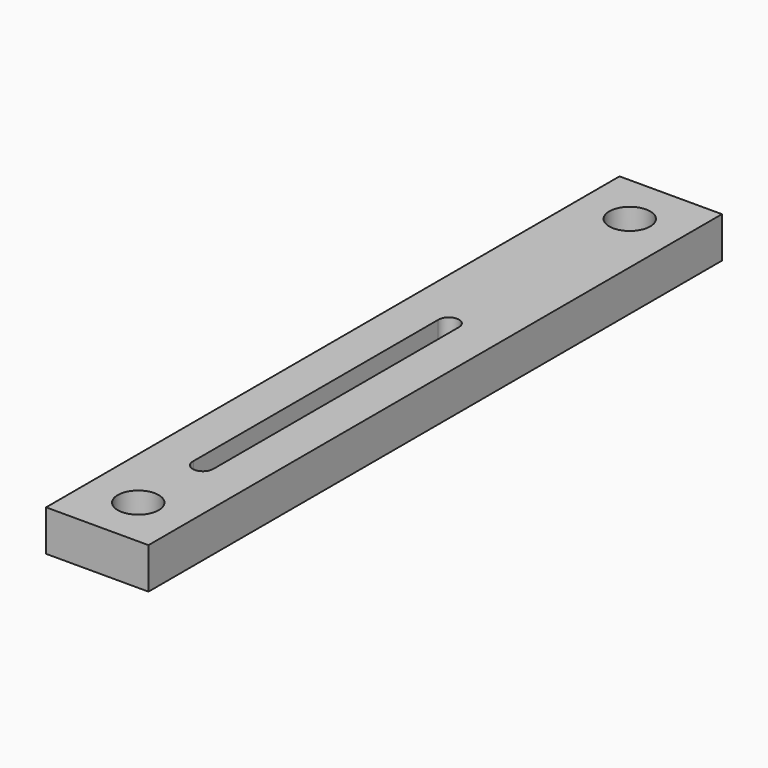
from build123d import *

# Parameters (mm, degrees)
F0_W     = 10
F0_H     = 70
F0_R     = 2
F1_DEPTH = 2


with BuildPart() as f1:
    # F0 (on Top) → F1 (new body, symmetric)
    with BuildSketch(Plane.XY):
        with Locations((0, 30)):
            Rectangle(F0_W, F0_H)
        Circle(F0_R, mode=Mode.SUBTRACT)
        with BuildLine():
            Line((1, 37.903518), (1, 7.903518))
            ThreePointArc((1, 7.903518), (-0.04193, 6.904398), (-0.996484, 7.987305))
            Line((-0.996484, 7.987305), (-0.996484, 37.819731))
            ThreePointArc((-0.996484, 37.819731), (-0.04193, 38.902639), (1, 37.903518))
        make_face(mode=Mode.SUBTRACT)
        with Locations((0, 60)):
            Circle(F0_R, mode=Mode.SUBTRACT)
    extrude(amount=F1_DEPTH, both=True)


solid = f1.part
